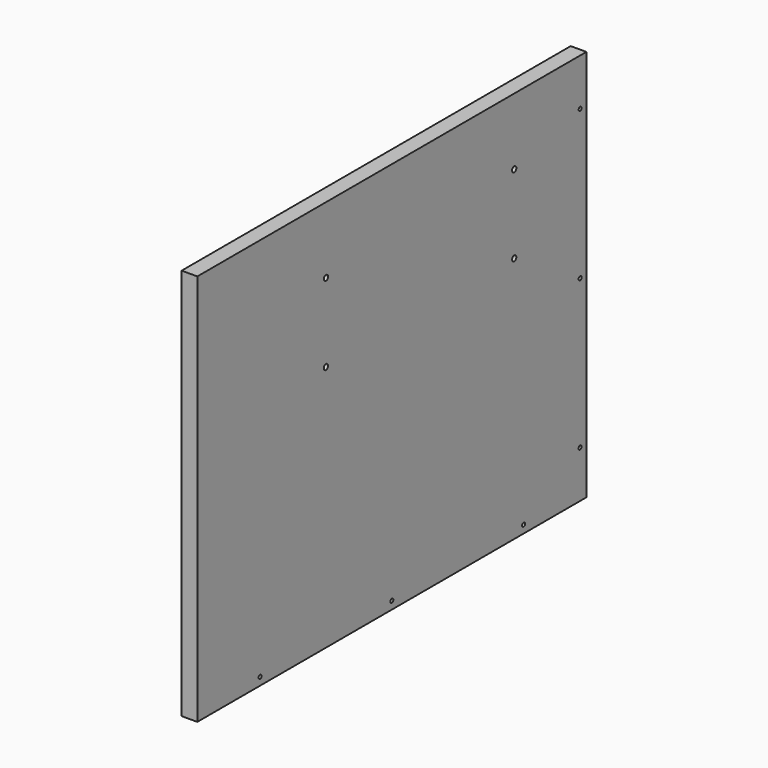
from build123d import *

# Parameters (mm, degrees)
CYLINDER009_R           = 1.7
CYLINDER009_DEPTH       = 20
CYLINDER005_R           = 1.7
CYLINDER005_DEPTH       = 61
CYLINDER005_PITCH_ANGLE = 90
CYLINDER004_R           = 1.7
CYLINDER004_DEPTH       = 61
CYLINDER004_PITCH_ANGLE = 90
CYLINDER002_R           = 1.7
CYLINDER002_DEPTH       = 61
CYLINDER002_PITCH_ANGLE = 90
BOX_W                   = 50
BOX_H                   = 215
BOX_DEPTH               = 115
CYLINDER006_R           = 1.7
CYLINDER006_DEPTH       = 61
CYLINDER006_PITCH_ANGLE = 90
SKETCH005_W             = 310
SKETCH005_H             = 250
SKETCH005_R             = 1.2
SKETCH005_R_2           = 1.7
PAD005_DEPTH            = 10
CYLINDER008_R           = 1.7
CYLINDER008_DEPTH       = 20
CYLINDER010_R           = 1.7
CYLINDER010_DEPTH       = 20
CYLINDER010_ROLL_ANGLE  = 90
CYLINDER011_R           = 1.7
CYLINDER011_DEPTH       = 20
CYLINDER011_ROLL_ANGLE  = 90
CYLINDER012_R           = 1.7
CYLINDER012_DEPTH       = 20
CYLINDER012_ROLL_ANGLE  = 90
CYLINDER007_R           = 1.7
CYLINDER007_DEPTH       = 20


with BuildPart() as cylinder009:
    # Cylinder009 → Cylinder009 (new body)
    with BuildSketch(Plane(origin=(205, 120, 235), x_dir=(1, 0, 0), z_dir=(0, 0, 1))):
        Circle(CYLINDER009_R)
    extrude(amount=CYLINDER009_DEPTH)


with BuildPart() as cylinder005:
    # Cylinder005 → Cylinder005 (new body)
    with BuildSketch(Plane.XY):
        Circle(CYLINDER005_R)
    extrude(amount=CYLINDER005_DEPTH)


with BuildPart() as cylinder005_1:
    # Cylinder005 pitch: moved
    add(cylinder005.part.rotate(Axis((0, 0, 0), (0, 1, 0)), CYLINDER005_PITCH_ANGLE))


with BuildPart() as cylinder005_2:
    # Cylinder005 placement: moved
    add(cylinder005_1.part.moved(Location((150, 112.5, 147.5))))


with BuildPart() as cylinder004:
    # Cylinder004 → Cylinder004 (new body)
    with BuildSketch(Plane.XY):
        Circle(CYLINDER004_R)
    extrude(amount=CYLINDER004_DEPTH)


with BuildPart() as cylinder004_1:
    # Cylinder004 pitch: moved
    add(cylinder004.part.rotate(Axis((0, 0, 0), (0, 1, 0)), CYLINDER004_PITCH_ANGLE))


with BuildPart() as cylinder004_2:
    # Cylinder004 placement: moved
    add(cylinder004_1.part.moved(Location((150, -37.5, 197.5))))


with BuildPart() as cylinder002:
    # Cylinder002 → Cylinder002 (new body)
    with BuildSketch(Plane.XY):
        Circle(CYLINDER002_R)
    extrude(amount=CYLINDER002_DEPTH)


with BuildPart() as cylinder002_1:
    # Cylinder002 pitch: moved
    add(cylinder002.part.rotate(Axis((0, 0, 0), (0, 1, 0)), CYLINDER002_PITCH_ANGLE))


with BuildPart() as cylinder002_2:
    # Cylinder002 placement: moved
    add(cylinder002_1.part.moved(Location((150, -37.5, 147.5))))


with BuildPart() as box:
    # Box → Box (new body)
    with BuildSketch(Plane(origin=(150, -70, 115), x_dir=(1, 0, 0), z_dir=(0, 0, 1))):
        with Locations((25, 107.5)):
            Rectangle(BOX_W, BOX_H)
    extrude(amount=BOX_DEPTH)


with BuildPart() as fusion002:
    # Cylinder006 → Cylinder006 (new body)
    with BuildSketch(Plane.XY):
        Circle(CYLINDER006_R)
    extrude(amount=CYLINDER006_DEPTH)


with BuildPart() as fusion002_1:
    # Cylinder006 pitch: moved
    add(fusion002.part.rotate(Axis((0, 0, 0), (0, 1, 0)), CYLINDER006_PITCH_ANGLE))


with BuildPart() as fusion002_2:
    # Cylinder006 placement: moved
    add(fusion002_1.part.moved(Location((150, 112.5, 197.5))))

    # Fusion002: union Cylinder005, Cylinder004, Cylinder002, Box
    add(cylinder005_2.part)
    add(cylinder004_2.part)
    add(cylinder002_2.part)
    add(box.part)


with BuildPart() as cut002:
    # Sketch005 → Pad005 (new body)
    with BuildSketch(Plane.YZ.offset(200)):
        with Locations((15, 115)):
            Rectangle(SKETCH005_W, SKETCH005_H)
        with Locations((165, 210)):
            Circle(SKETCH005_R, mode=Mode.SUBTRACT)
        with Locations((165, 115)):
            Circle(SKETCH005_R, mode=Mode.SUBTRACT)
        with Locations((165, 20)):
            Circle(SKETCH005_R, mode=Mode.SUBTRACT)
        with Locations((120, -5)):
            Circle(SKETCH005_R, mode=Mode.SUBTRACT)
        with Locations((15, -5)):
            Circle(SKETCH005_R, mode=Mode.SUBTRACT)
        with Locations((-90, -5)):
            Circle(SKETCH005_R, mode=Mode.SUBTRACT)
        with Locations((-37.5, 197.5)):
            Circle(SKETCH005_R_2, mode=Mode.SUBTRACT)
        with Locations((-37.5, 147.5)):
            Circle(SKETCH005_R_2, mode=Mode.SUBTRACT)
        with Locations((112.5, 147.5)):
            Circle(SKETCH005_R_2, mode=Mode.SUBTRACT)
        with Locations((112.5, 197.5)):
            Circle(SKETCH005_R_2, mode=Mode.SUBTRACT)
    extrude(amount=PAD005_DEPTH)

    # Cut002: cut Fusion002
    add(fusion002_2.part, mode=Mode.SUBTRACT)


with BuildPart() as cut007:
    # Cut007 base: copy of Cut002
    add(cut002.part)

    # Cut007: cut Cylinder009
    add(cylinder009.part, mode=Mode.SUBTRACT)


with BuildPart() as cylinder008:
    # Cylinder008 → Cylinder008 (new body)
    with BuildSketch(Plane(origin=(205, 15, 235), x_dir=(1, 0, 0), z_dir=(0, 0, 1))):
        Circle(CYLINDER008_R)
    extrude(amount=CYLINDER008_DEPTH)


with BuildPart() as cut006:
    # Cut006 base: copy of Cut002
    add(cut002.part)

    # Cut006: cut Cylinder008
    add(cylinder008.part, mode=Mode.SUBTRACT)


with BuildPart() as cylinder010:
    # Cylinder010 → Cylinder010 (new body)
    with BuildSketch(Plane.XY):
        Circle(CYLINDER010_R)
    extrude(amount=CYLINDER010_DEPTH)


with BuildPart() as cylinder010_1:
    # Cylinder010 roll: moved
    add(cylinder010.part.rotate(Axis((0, 0, 0), (1, 0, 0)), CYLINDER010_ROLL_ANGLE))


with BuildPart() as cylinder010_2:
    # Cylinder010 placement: moved
    add(cylinder010_1.part.moved(Location((205, -135, 20))))


with BuildPart() as cut008:
    # Cut008 base: copy of Cut002
    add(cut002.part)

    # Cut008: cut Cylinder010
    add(cylinder010_2.part, mode=Mode.SUBTRACT)


with BuildPart() as cylinder011:
    # Cylinder011 → Cylinder011 (new body)
    with BuildSketch(Plane.XY):
        Circle(CYLINDER011_R)
    extrude(amount=CYLINDER011_DEPTH)


with BuildPart() as cylinder011_1:
    # Cylinder011 roll: moved
    add(cylinder011.part.rotate(Axis((0, 0, 0), (1, 0, 0)), CYLINDER011_ROLL_ANGLE))


with BuildPart() as cylinder011_2:
    # Cylinder011 placement: moved
    add(cylinder011_1.part.moved(Location((205, -135, 115))))


with BuildPart() as cut009:
    # Cut009 base: copy of Cut002
    add(cut002.part)

    # Cut009: cut Cylinder011
    add(cylinder011_2.part, mode=Mode.SUBTRACT)


with BuildPart() as cylinder012:
    # Cylinder012 → Cylinder012 (new body)
    with BuildSketch(Plane.XY):
        Circle(CYLINDER012_R)
    extrude(amount=CYLINDER012_DEPTH)


with BuildPart() as cylinder012_1:
    # Cylinder012 roll: moved
    add(cylinder012.part.rotate(Axis((0, 0, 0), (1, 0, 0)), CYLINDER012_ROLL_ANGLE))


with BuildPart() as cylinder012_2:
    # Cylinder012 placement: moved
    add(cylinder012_1.part.moved(Location((205, -135, 210))))


with BuildPart() as ok:
    # Cut010 base: copy of Cut002
    add(cut002.part)

    # Cut010: cut Cylinder012
    add(cylinder012_2.part, mode=Mode.SUBTRACT)


with BuildPart() as cylinder007:
    # Cylinder007 → Cylinder007 (new body)
    with BuildSketch(Plane(origin=(205, -90, 235), x_dir=(1, 0, 0), z_dir=(0, 0, 1))):
        Circle(CYLINDER007_R)
    extrude(amount=CYLINDER007_DEPTH)


with BuildPart() as fusion003:
    # Cut005 base: copy of Cut002
    add(cut002.part)

    # Cut005: cut Cylinder007
    add(cylinder007.part, mode=Mode.SUBTRACT)

    # Fusion003: union Cut007, Cut006, Cut008, Cut009, ok
    add(cut007.part)
    add(cut006.part)
    add(cut008.part)
    add(cut009.part)
    add(ok.part)


solid = fusion003.part
